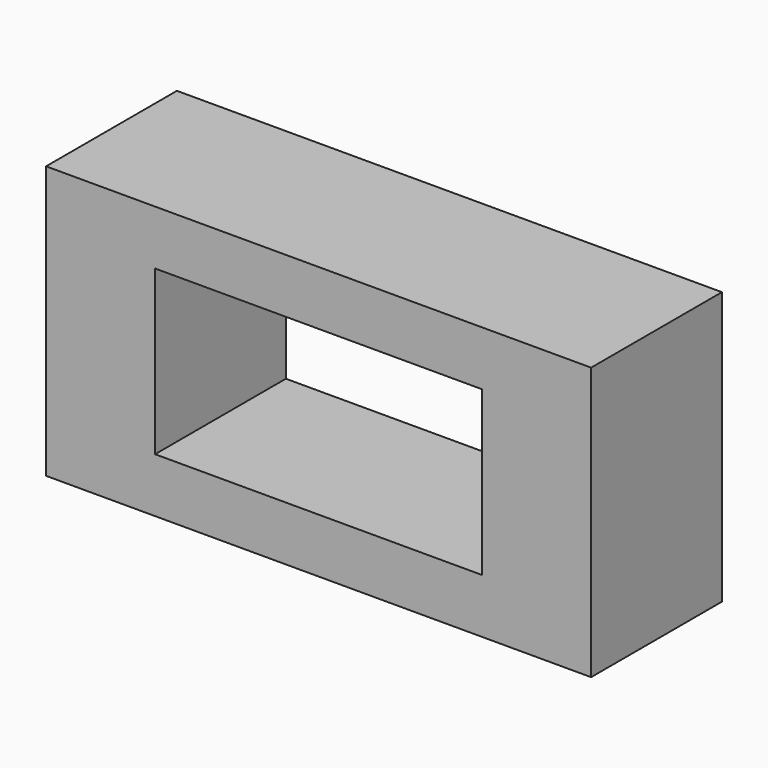
from build123d import *

# Parameters (mm, degrees)
F0_W     = 38.1
F0_H     = 63.5
F1_DEPTH = 127
F2_W     = 76.2
F2_H     = 38.1
F3_DEPTH = 38.101


with BuildPart() as f1:
    # F0 (on Right) → F1 (new body)
    with BuildSketch(Plane.YZ):
        with Locations((-25.644889, 4.602778)):
            Rectangle(F0_W, F0_H)
    extrude(amount=-F1_DEPTH)

    # F2 (on face) → F3 (cut, through all)
    with BuildSketch(Plane.XZ.offset(44.694889)):
        with Locations((-63.5, 4.602778)):
            Rectangle(F2_W, F2_H)
    extrude(amount=-F3_DEPTH, mode=Mode.SUBTRACT)


solid = f1.part
